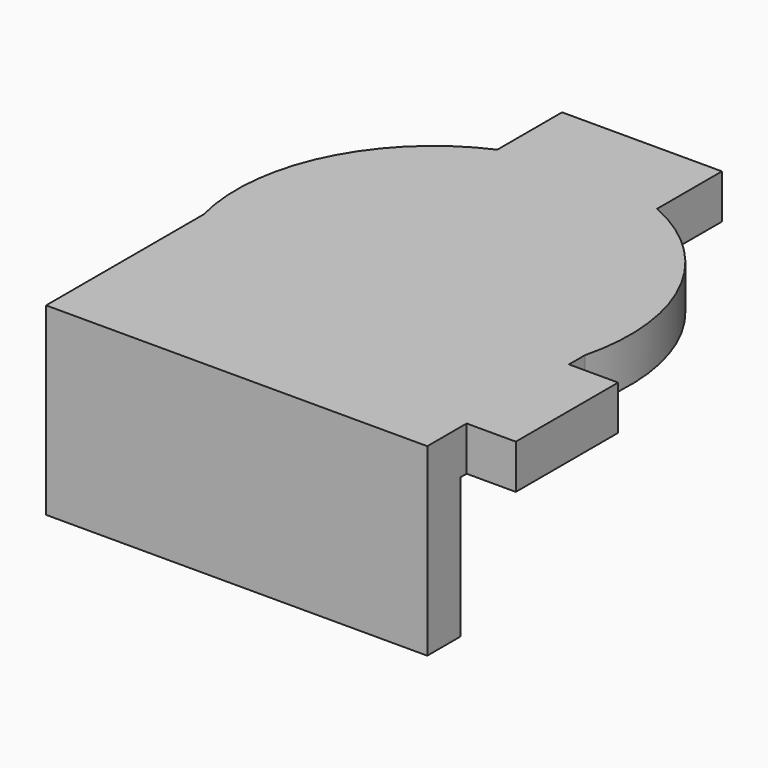
from build123d import *

# Parameters (mm, degrees)
F0_W     = 16
F0_H     = 28
F1_DEPTH = 18
F0_W_2   = 69.5
F0_H_2   = 17
F2_DEPTH = 75


with BuildPart() as f1:
    # F0 (on Top) → F1 (new body)
    with BuildSketch(Plane.XY):
        with BuildLine():
            Line((-77.5, -19.843135), (-77.5, -83))
            Line((-77.5, -83), (-8, -83))
            Line((-8, -83), (-8, -55))
            Line((-8, -55), (-22, -55))
            ThreePointArc((-22, -55), (-27.656854, -52.656854), (-30, -47))
            ThreePointArc((-30, -47), (-27.656854, -41.343146), (-22, -39))
            Line((-22, -39), (22, -39))
            ThreePointArc((22, -39), (27.656854, -41.343146), (30, -47))
            ThreePointArc((30, -47), (27.656854, -52.656854), (22, -55))
            Line((22, -55), (8, -55))
            Line((8, -55), (8, -83))
            Line((8, -83), (77.5, -83))
            Line((77.5, -83), (77.5, -80))
            Line((77.5, -80), (97.5, -80))
            Line((97.5, -80), (97.5, -28))
            Line((97.5, -28), (77.5, -28))
            Line((77.5, -28), (77.5, -19.843135))
            ThreePointArc((77.5, -19.843135), (72.004521, 34.861855), (32.5, 73.100958))
            Line((32.5, 73.100958), (32.5, 106))
            Line((32.5, 106), (8, 106))
            Line((8, 106), (8, 54))
            ThreePointArc((8, 54), (5.656854, 48.343146), (0, 46))
            ThreePointArc((0, 46), (-5.656854, 48.343146), (-8, 54))
            Line((-8, 54), (-8, 106))
            Line((-8, 106), (-32.5, 106))
            Line((-32.5, 106), (-32.5, 73.100958))
            ThreePointArc((-32.5, 73.100958), (-72.004521, 34.861855), (-77.5, -19.843135))
        make_face()
        with Locations((0, -69)):
            Rectangle(F0_W, F0_H)
        with BuildLine():
            Line((-22, -55), (-8, -55))
            Line((-8, -55), (8, -55))
            Line((8, -55), (22, -55))
            ThreePointArc((22, -55), (27.656854, -52.656854), (30, -47))
            ThreePointArc((30, -47), (27.656854, -41.343146), (22, -39))
            Line((22, -39), (-22, -39))
            ThreePointArc((-22, -39), (-27.656854, -41.343146), (-30, -47))
            ThreePointArc((-30, -47), (-27.656854, -52.656854), (-22, -55))
        make_face()
        with BuildLine():
            Line((8, 106), (-8, 106))
            Line((-8, 106), (-8, 54))
            ThreePointArc((-8, 54), (-5.656854, 48.343146), (0, 46))
            ThreePointArc((0, 46), (5.656854, 48.343146), (8, 54))
            Line((8, 54), (8, 106))
        make_face()
    extrude(amount=-F1_DEPTH)

    # F0 (on Top) → F2 (join)
    with BuildSketch(Plane.XY):
        with Locations((42.75, -91.5)):
            Rectangle(F0_W_2, F0_H_2)
        with Locations((0, -91.5)):
            Rectangle(F0_W, F0_H_2)
        with Locations((-42.75, -91.5)):
            Rectangle(F0_W_2, F0_H_2)
    extrude(amount=-F2_DEPTH)


solid = f1.part
